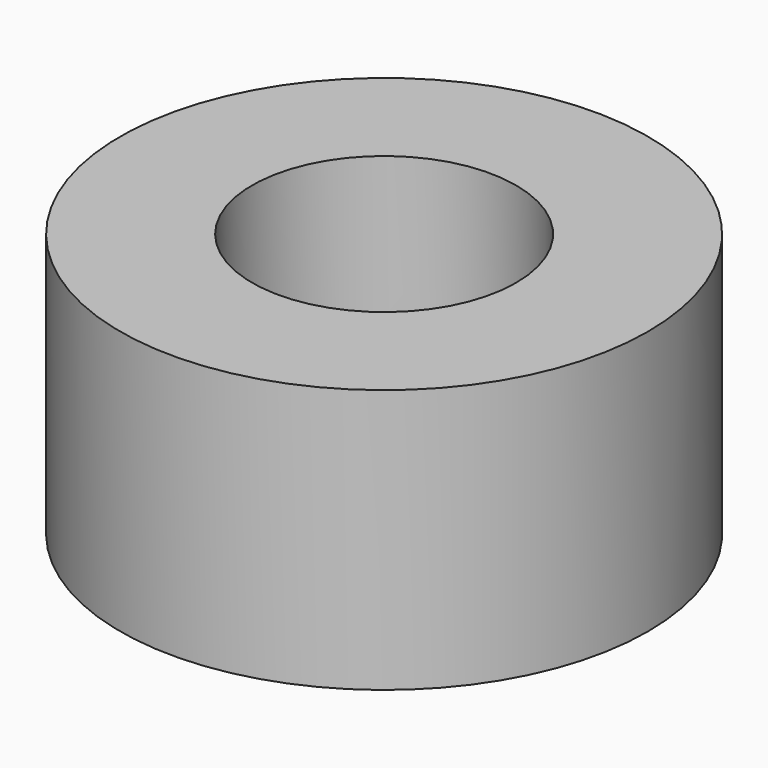
from build123d import *

# Parameters (mm, degrees)
SKETCH_R        = 15
PAD_DEPTH       = 15
SKETCH001_R     = 7.5
POCKET_DEPTH    = 10
SKETCH002_R     = 1.75
POCKET001_DEPTH = 10


with BuildPart() as part:
    # Sketch → Pad (new body)
    with BuildSketch(Plane.XY):
        Circle(SKETCH_R)
    extrude(amount=PAD_DEPTH)

    # Sketch001 (on Face3 of Pad) → Pocket (cut)
    with BuildSketch(Plane.XY.offset(15)):
        Circle(SKETCH001_R)
    extrude(amount=-POCKET_DEPTH, mode=Mode.SUBTRACT)

    # Sketch002 (on Face2 of Pocket) → Pocket001 (cut)
    with BuildSketch(Plane(origin=(0, 0, 0), x_dir=(1, 0, 0), z_dir=(0, 0, -1))):
        Circle(SKETCH002_R)
    extrude(amount=-POCKET001_DEPTH, mode=Mode.SUBTRACT)


solid = part.part
